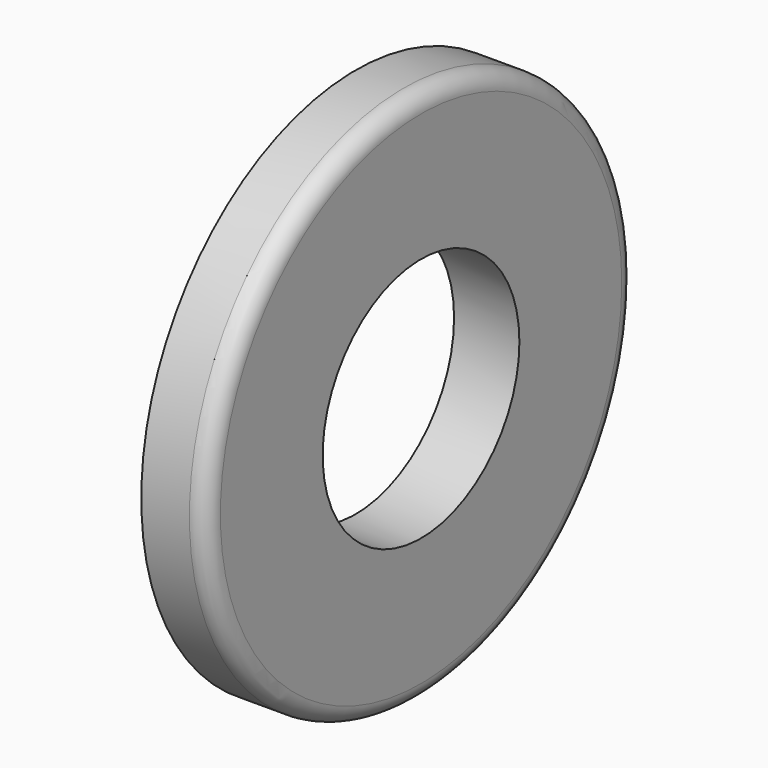
from build123d import *

# Parameters (mm, degrees)
F0_R     = 7.91845
F0_R_2   = 3.6322
F1_DEPTH = 1.9304
F2_R     = 0.508


with BuildPart() as f1:
    # F0 (on Right) → F1 (new body)
    with BuildSketch(Plane.YZ):
        Circle(F0_R)
        Circle(F0_R_2, mode=Mode.SUBTRACT)
    extrude(amount=F1_DEPTH)

    # F2
    f2_edges = [f1.edges().sort_by_distance(p)[0] for p in [
        (1.9304, -7.91845, 0),
    ]]
    fillet(f2_edges, radius=F2_R)


solid = f1.part
